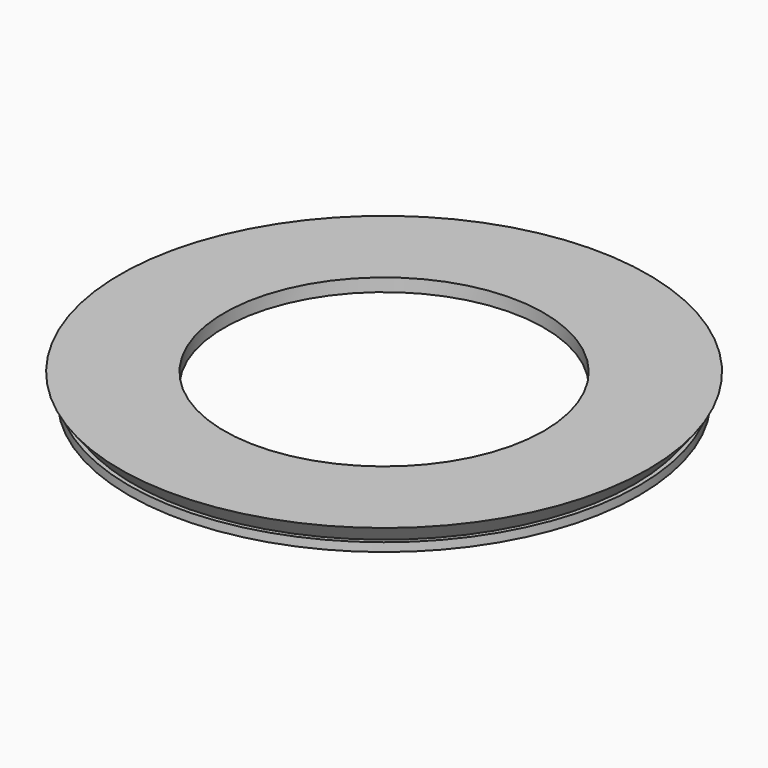
from build123d import *

# Parameters (mm, degrees)
CYLINDER009_R     = 18.5
CYLINDER009_DEPTH = 1.5
CYLINDER008_R     = 31
CYLINDER008_DEPTH = 1.5
CYLINDER007_R     = 27.5
CYLINDER007_DEPTH = 10
CYLINDER006_R     = 27.5
CYLINDER006_DEPTH = 1.5
CYLINDER005_R     = 29.5
CYLINDER005_DEPTH = 1.5


with BuildPart() as cone002:
    # Cone002 → Cone002 (revolve)
    with BuildSketch(Plane.XZ):
        Polygon((0, 0), (29, 0), (60, 40), (0, 40), align=None)
    revolve(axis=Axis((0, 0, 0), (0, 0, 1)))


with BuildPart() as cut013:
    # Cone003 → Cone003 (revolve)
    with BuildSketch(Plane.XZ):
        Polygon((0, 0), (31, 0), (62, 40), (0, 40), align=None)
    revolve(axis=Axis((0, 0, 0), (0, 0, 1)))

    # Cut013: cut Cone002
    add(cone002.part, mode=Mode.SUBTRACT)


with BuildPart() as cut013_1:
    # Cut013 placement: moved
    add(cut013.part.moved(Location((83, 32, 99.5))))


with BuildPart() as cylinder009:
    # Cylinder009 → Cylinder009 (new body)
    with BuildSketch(Plane.XY):
        Circle(CYLINDER009_R)
    extrude(amount=CYLINDER009_DEPTH)


with BuildPart() as cut010:
    # Cylinder008 → Cylinder008 (new body)
    with BuildSketch(Plane.XY):
        Circle(CYLINDER008_R)
    extrude(amount=CYLINDER008_DEPTH)

    # Cut010: cut Cylinder009
    add(cylinder009.part, mode=Mode.SUBTRACT)


with BuildPart() as cut010_1:
    # Cut010 placement: moved
    add(cut010.part.moved(Location((0, 0, 1.5))))


with BuildPart() as cylinder007:
    # Cylinder007 → Cylinder007 (new body)
    with BuildSketch(Plane.XY):
        Circle(CYLINDER007_R)
    extrude(amount=CYLINDER007_DEPTH)


with BuildPart() as cylinder006:
    # Cylinder006 → Cylinder006 (new body)
    with BuildSketch(Plane.XY):
        Circle(CYLINDER006_R)
    extrude(amount=CYLINDER006_DEPTH)


with BuildPart() as union:
    # Cylinder005 → Cylinder005 (new body)
    with BuildSketch(Plane.XY):
        Circle(CYLINDER005_R)
    extrude(amount=CYLINDER005_DEPTH)

    # Cut008: cut Cylinder006
    add(cylinder006.part, mode=Mode.SUBTRACT)

    # Cut009: cut Cylinder007
    add(cylinder007.part, mode=Mode.SUBTRACT)

    # Fusion004: union Cut010
    add(cut010_1.part)


with BuildPart() as union_1:
    # Fusion004 placement: moved
    add(union.part.moved(Location((83, 32, 98.5))))

    # Cut014: cut Cut013
    add(cut013_1.part, mode=Mode.SUBTRACT)


solid = union_1.part
